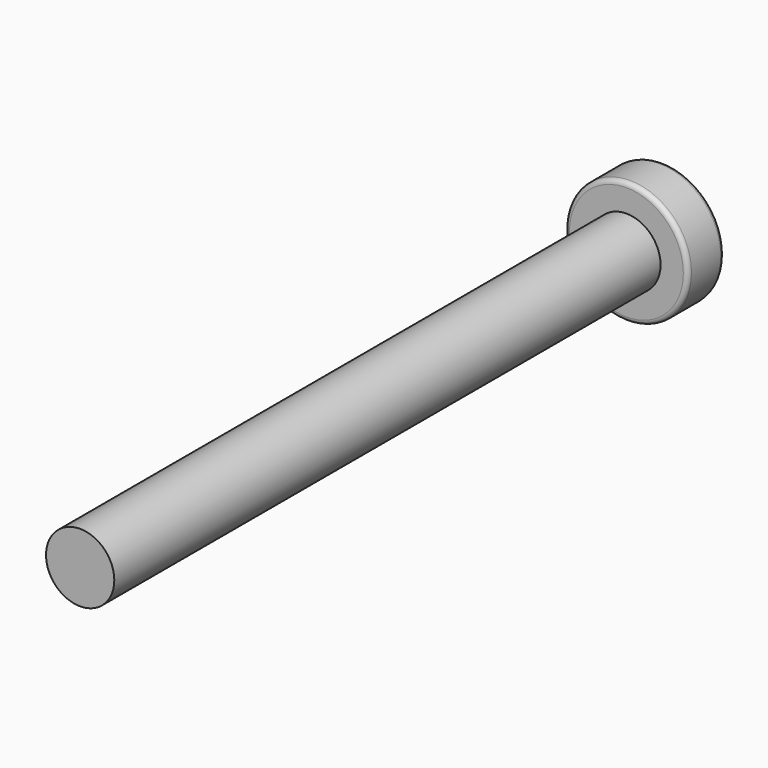
from build123d import *

# Parameters (mm, degrees)
FILLET_R     = 0.2
POCKET_DEPTH = 1.3
FILLET001_R  = 0.2


with BuildPart() as part:
    # Sketch → Revolution (revolve)
    with BuildSketch(Plane.XY):
        Polygon((0, 0), (0, 32), (2.7, 32), (2.7, 30), (1.5, 30), (1.5, 0), align=None)
    revolve(axis=Axis((0, 0, 0), (0, 1, 0)))

    # Fillet
    fillet_edges = [part.edges().sort_by_distance(p)[0] for p in [
        (-2.7, 30, 0),
        (-2.7, 32, 0),
    ]]
    fillet(fillet_edges, radius=FILLET_R)

    # Sketch001 (on Face1 of Fillet) → Pocket (cut)
    with BuildSketch(Plane(origin=(0, 32, 0), x_dir=(-1, 0, 0), z_dir=(0, 1, 0))):
        Polygon((0.5, 1.5), (0.5, 0.5), (1.5, 0.5), (1.5, -0.5), (0.5, -0.5), (0.5, -1.5), (-0.5, -1.5), (-0.5, -0.5), (-1.5, -0.5), (-1.5, 0.5), (-0.5, 0.5), (-0.5, 1.5), align=None)
    extrude(amount=-POCKET_DEPTH, mode=Mode.SUBTRACT)

    # Fillet001
    fillet001_edges = [part.edges().sort_by_distance(p)[0] for p in [
        (0, 32, -1.5),
        (0.5, 32, -1),
        (1, 32, -0.5),
        (1.5, 32, 0),
        (1, 32, 0.5),
        (0.5, 32, 1),
        (-0.5, 32, 1),
        (0, 32, 1.5),
        (-1.5, 32, 0),
        (-1, 32, -0.5),
        (-0.5, 32, -1),
    ]]
    fillet(fillet001_edges, radius=FILLET001_R)


solid = part.part
